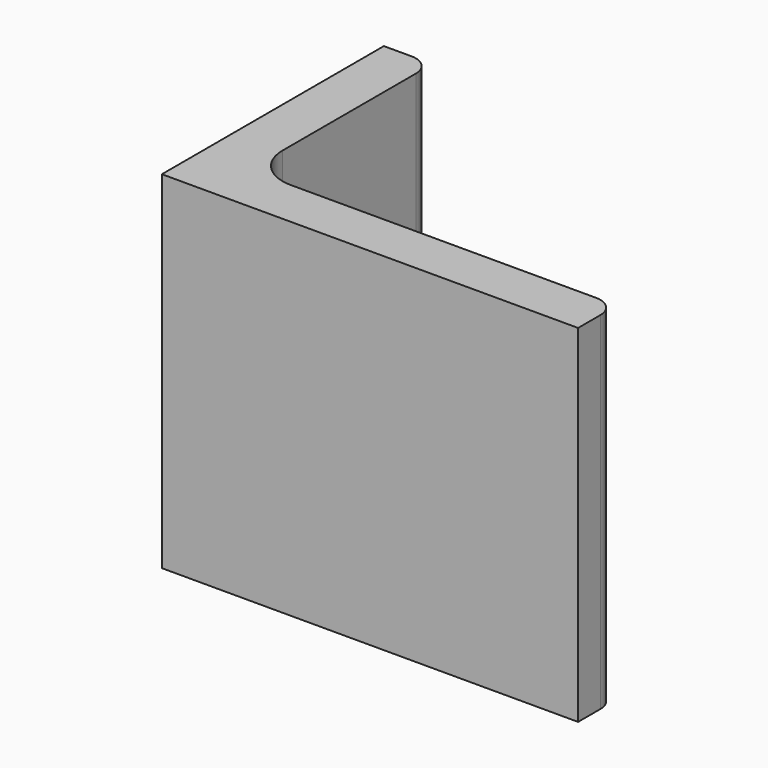
from build123d import *

# Parameters (mm, degrees)
EXTRUDE_DEPTH = 50


with BuildPart() as part:
    # Sketch → Extrude (new body)
    with BuildSketch(Plane.XY):
        with BuildLine():
            Line((0, 0), (60, 0))
            Line((60, 0), (60, 4))
            ThreePointArc((60, 4), (59.12132, 6.12132), (57, 7))
            Line((57, 7), (13, 7))
            ThreePointArc((7, 13), (8.757359, 8.757359), (13, 7))
            Line((7, 37), (7, 13))
            ThreePointArc((7, 37), (6.12132, 39.12132), (4, 40))
            Line((0, 40), (4, 40))
            Line((0, 0), (0, 40))
        make_face()
    extrude(amount=EXTRUDE_DEPTH)


solid = part.part
